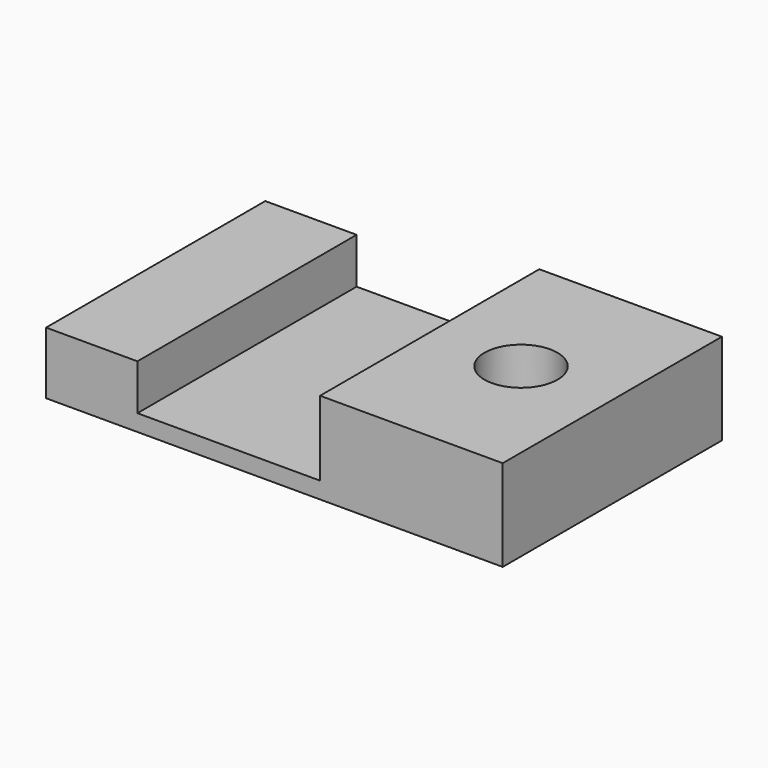
from build123d import *

# Parameters (mm, degrees)
F1_DEPTH = 38.1
F3_D     = 20.32


with BuildPart() as f1:
    # F0 (on Front) → F1 (new body, symmetric)
    with BuildSketch(Plane.XZ):
        Polygon((-22.748351, 12.7), (-48.148351, 12.7), (-48.148351, -4.605495), (78.851649, -4.605495), (78.851649, 20.794505), (28.051649, 20.794505), (28.051649, 0), (-22.748351, 0), align=None)
    extrude(amount=F1_DEPTH, both=True)

    # F3 (through all)
    with Locations(Plane.XY.offset(20.794505)):
        with Locations((53.451649, 0)):
            Hole(F3_D / 2)


solid = f1.part
